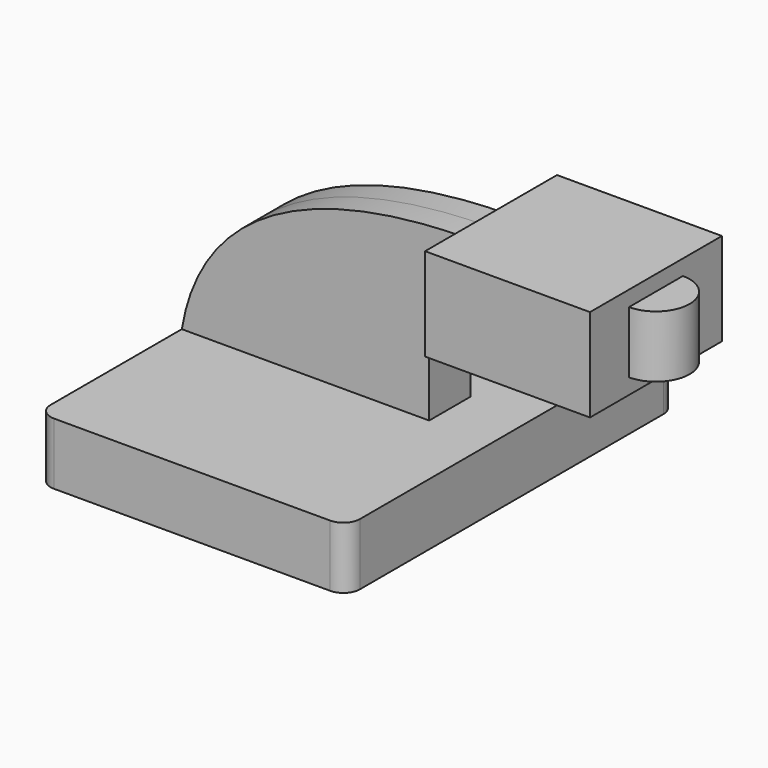
from build123d import *

# Parameters (mm, degrees)
F1_DEPTH = 63.5
F2_DEPTH = 7.9375
F3_DEPTH = 25.4
F0_W     = 10.3774026796
F0_H     = 19.05
F5_R     = 5.08


with BuildPart() as f1:
    # F0 (on Front) → F1 (new body, symmetric)
    with BuildSketch(Plane.XZ):
        Polygon((-47.625, -9.525), (47.625, -9.525), (47.625, 9.525), (28.575, 9.525), (-47.625, 9.525), align=None)
    extrude(amount=F1_DEPTH, both=True)

    # F0 (on Front) → F2 (join, symmetric)
    with BuildSketch(Plane.XZ):
        with BuildLine():
            add(Edge.make_bspline(
                [(-47.625, 9.525), (-41.1829413646, 48.2544610148), (-3.609227819, 62.5325655632), (41.275, 62.8309662256)],
                knots=[0, 0, 0, 0, 105.7723986336, 105.7723986336, 105.7723986336, 105.7723986336], degree=3))
            Line((-47.625, 9.525), (28.575, 9.525))
            Line((28.575, 9.525), (28.575, 27.0002))
            ThreePointArc((28.575, 27.0002), (31.9091488719, 41.8922700374), (41.275, 53.9409683632))
            Line((41.275, 53.9409683632), (41.275, 62.8309662256))
        make_face()
    extrude(amount=F2_DEPTH, both=True)

    # F0 (on Front) → F3 (join, symmetric)
    with BuildSketch(Plane.XZ):
        with BuildLine():
            ThreePointArc((63.5, 42.8752), (57.3434465811, 41.6327826497), (52.1505478123, 38.1))
            Line((52.1505478123, 38.1), (92.075, 38.1))
            Line((92.075, 38.1), (92.075, 42.8752))
            Line((92.075, 42.8752), (63.5, 42.8752))
        make_face()
        with BuildLine():
            Line((41.275, 66.675), (41.275, 62.8309662256))
            add(Edge.make_bspline(
                [(41.275, 62.8309662256), (48.5260198489, 62.8791726721), (55.9678310127, 62.5625339124), (63.5, 61.9252)],
                knots=[105.7723986336, 105.7723986336, 105.7723986336, 105.7723986336, 122.8598656398, 122.8598656398, 122.8598656398, 122.8598656398], degree=3))
            Line((63.5, 61.9252), (92.075, 61.9252))
            Line((92.075, 61.9252), (92.075, 66.675))
            Line((92.075, 66.675), (41.275, 66.675))
        make_face()
        with BuildLine():
            add(Edge.make_bspline(
                [(41.275, 62.8309662256), (48.5260198489, 62.8791726721), (55.9678310127, 62.5625339124), (63.5, 61.9252)],
                knots=[105.7723986336, 105.7723986336, 105.7723986336, 105.7723986336, 122.8598656398, 122.8598656398, 122.8598656398, 122.8598656398], degree=3))
            Line((41.275, 62.8309662256), (41.275, 53.9409683632))
            ThreePointArc((41.275, 53.9409683632), (51.6921786532, 59.8685887655), (63.5, 61.9252))
        make_face()
        with BuildLine():
            Line((41.275, 38.1), (52.1505478123, 38.1))
            ThreePointArc((52.1505478123, 38.1), (57.3434465811, 41.6327826497), (63.5, 42.8752))
            Line((63.5, 42.8752), (92.075, 42.8752))
            Line((92.075, 42.8752), (92.075, 61.9252))
            Line((92.075, 61.9252), (63.5, 61.9252))
            ThreePointArc((63.5, 61.9252), (51.6921786532, 59.8685887655), (41.275, 53.9409683632))
            Line((41.275, 53.9409683632), (41.275, 38.1))
        make_face()
    extrude(amount=F3_DEPTH, both=True)

    # F0 (on Front) → F4 (revolve)
    with BuildSketch(Plane.XZ):
        with Locations((97.2637013398, 52.4002)):
            Rectangle(F0_W, F0_H)
    revolve(axis=Axis((92.075, 0, 52.3875), (0, 0, 1)))

    # F5
    f5_edges = [f1.edges().sort_by_distance(p)[0] for p in [
        (-47.625, -63.5, 0),
        (47.625, -63.5, 0),
        (47.625, 63.5, 0),
        (-47.625, 63.5, 0),
    ]]
    fillet(f5_edges, radius=F5_R)


solid = f1.part
